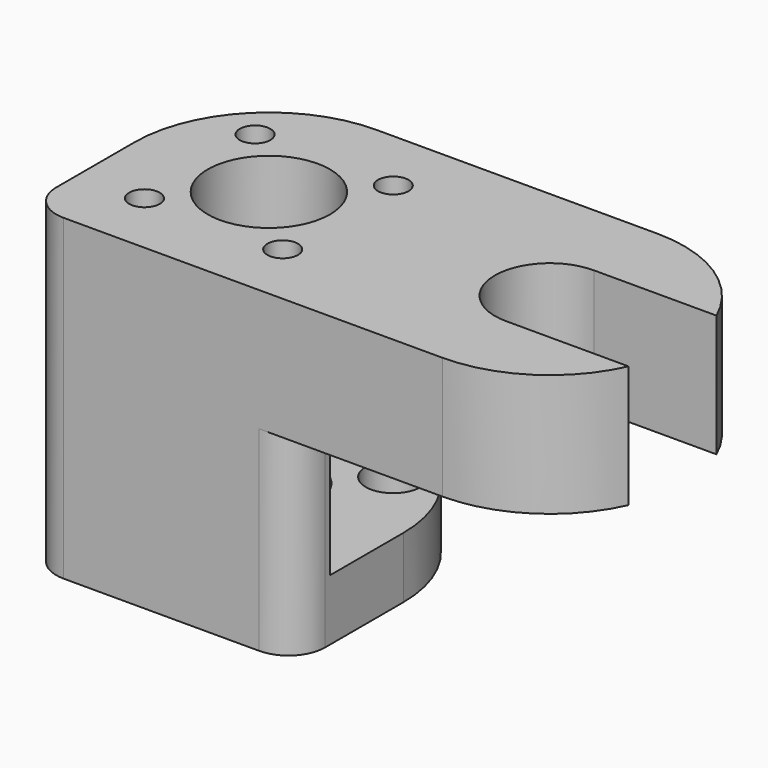
from build123d import *

# Parameters (mm, degrees)
SKETCH_R        = 5
SKETCH_R_2      = 1.25
PAD_DEPTH       = 10
SKETCH002_W     = 22
SKETCH002_H     = 3.5
PAD001_DEPTH    = 11
SKETCH003_R     = 4
SKETCH003_R_2   = 2.25
PAD002_DEPTH    = 5
POCKET_DEPTH    = 26.001
POCKET001_DEPTH = 16


with BuildPart() as part:
    # Sketch → Pad (new body)
    with BuildSketch(Plane.XY):
        with BuildLine():
            Line((0, 11), (23, 11))
            ThreePointArc((33.03743, 4.5), (28.97913, 9.233093), (23, 11))
            Line((23, 4.5), (33.03743, 4.5))
            ThreePointArc((23, 4.5), (18.5, 0), (23, -4.5))
            Line((23, -4.5), (33.03743, -4.5))
            ThreePointArc((23, -11), (28.97913, -9.233093), (33.03743, -4.5))
            Line((23, -11), (0, -11))
            Line((-11, -11), (0, -11))
            Line((-11, -11), (-11, 0))
            ThreePointArc((0, 11), (-7.778175, 7.778175), (-11, 0))
        make_face()
        Circle(SKETCH_R, mode=Mode.SUBTRACT)
        with Locations((-5.656854, 5.656854)):
            Circle(SKETCH_R_2, mode=Mode.SUBTRACT)
        with Locations((5.656854, 5.656854)):
            Circle(SKETCH_R_2, mode=Mode.SUBTRACT)
        with Locations((5.656854, -5.656854)):
            Circle(SKETCH_R_2, mode=Mode.SUBTRACT)
        with Locations((-5.656854, -5.656854)):
            Circle(SKETCH_R_2, mode=Mode.SUBTRACT)
    extrude(amount=PAD_DEPTH)

    # Sketch002 (on Face16 of Pad) → Pad001 (join)
    with BuildSketch(Plane(origin=(0, 0, 0), x_dir=(1, 0, 0), z_dir=(0, 0, -1))):
        with Locations((0, 9.25)):
            Rectangle(SKETCH002_W, SKETCH002_H)
    extrude(amount=PAD001_DEPTH)

    # Sketch003 (on Face11 of Pad001) → Pad002 (join)
    with BuildSketch(Plane(origin=(0, 0, -11), x_dir=(1, 0, 0), z_dir=(0, 0, -1))):
        with BuildLine():
            Line((-11, 0), (-11, 11))
            Line((-11, 11), (11, 11))
            Line((11, 11), (11, 0))
            ThreePointArc((-11, 0), (0, -11), (11, 0))
        make_face()
        Circle(SKETCH003_R, mode=Mode.SUBTRACT)
        with Locations((-5.656849, 5.65686)):
            Circle(SKETCH003_R_2, mode=Mode.SUBTRACT)
        with Locations((5.656849, 5.65686)):
            Circle(SKETCH003_R_2, mode=Mode.SUBTRACT)
        with Locations((5.656849, -5.65686)):
            Circle(SKETCH003_R_2, mode=Mode.SUBTRACT)
        with Locations((-5.656871, -5.656837)):
            Circle(SKETCH003_R_2, mode=Mode.SUBTRACT)
    extrude(amount=PAD002_DEPTH)

    # Sketch005 (on Face6 of Pad002) → Pocket (cut, through all)
    with BuildSketch(Plane.XY.offset(10)):
        with BuildLine():
            Line((-11, -11), (-11, -8))
            ThreePointArc((-11, -8), (-10.12132, -10.12132), (-8, -11))
            Line((-11, -11), (-8, -11))
        make_face()
    extrude(amount=-POCKET_DEPTH, mode=Mode.SUBTRACT)

    # Sketch006 (on Face25 of Pocket) → Pocket001 (cut)
    with BuildSketch(Plane(origin=(0, 0, -16), x_dir=(1, 0, 0), z_dir=(0, 0, -1))):
        with BuildLine():
            Line((8, 11), (11, 11))
            Line((11, 11), (11, 8))
            ThreePointArc((11, 8), (10.12132, 10.12132), (8, 11))
        make_face()
    extrude(amount=-POCKET001_DEPTH, mode=Mode.SUBTRACT)


solid = part.part
